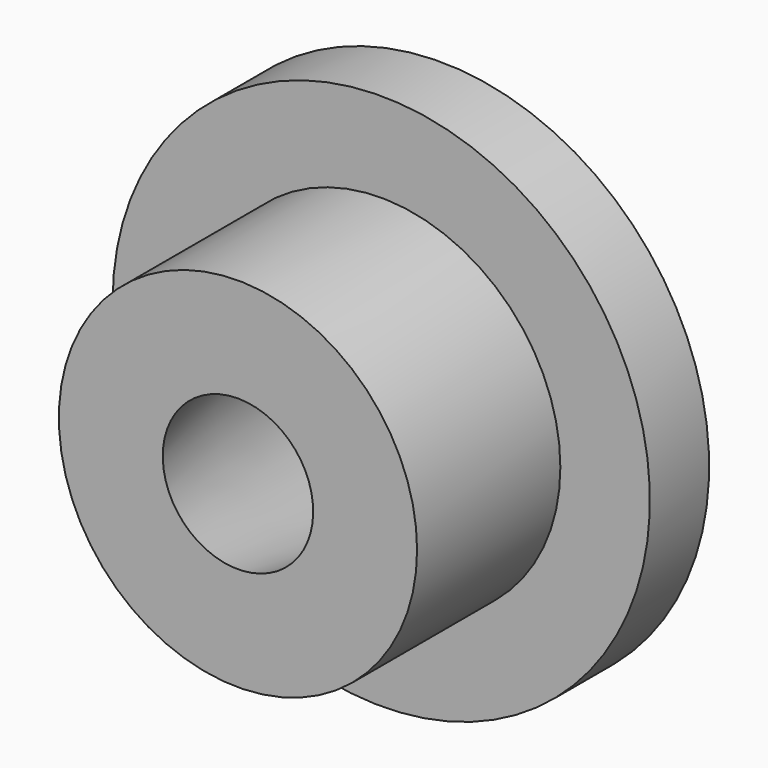
from build123d import *

# Parameters (mm, degrees)
F0_R     = 3.81
F1_DEPTH = 3.81
F2_R     = 5.715
F3_DEPTH = 1.5748


with BuildPart() as f1:
    # F0 (on Front) → F1 (new body)
    with BuildSketch(Plane.XZ):
        Circle(F0_R)
    extrude(amount=F1_DEPTH)

    # F2 (on face) → F3 (join)
    with BuildSketch(Plane(origin=(0, 0, 0), x_dir=(-1, 0, 0), z_dir=(0, 1, 0))):
        Circle(F2_R)
    extrude(amount=F3_DEPTH)

    # F4 (on Right) → F5 (revolve, cut)
    with BuildSketch(Plane.YZ):
        Polygon((-3.879813, 1.5875), (-3.879813, 0), (1.65217, 0), (1.65217, 2.562938), align=None)
    revolve(axis=Axis((0, -1.113821, 0), (0, 1, 0)), mode=Mode.SUBTRACT)


solid = f1.part
